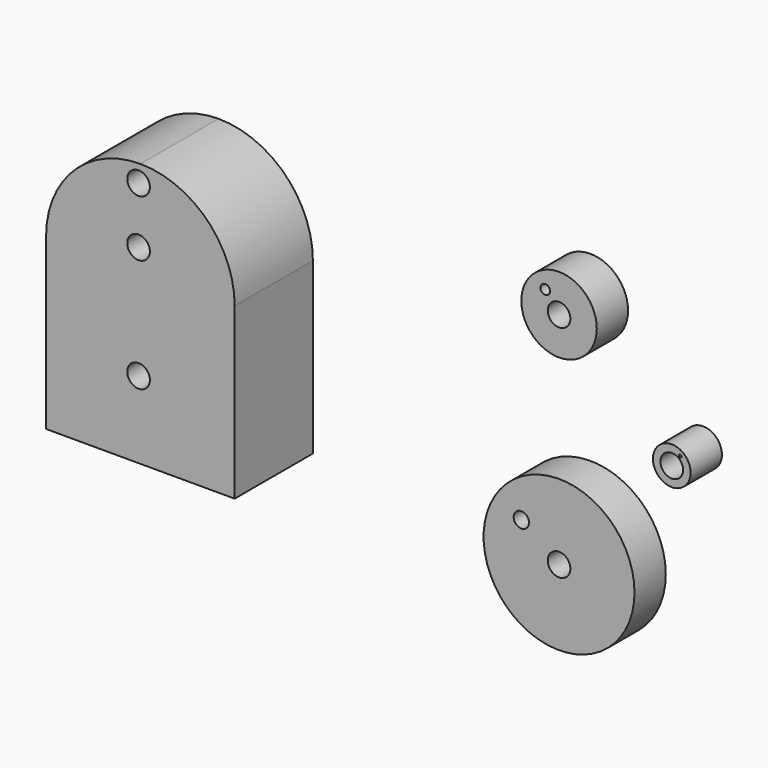
from build123d import *

# Parameters (mm, degrees)
F0_R     = 1.736305
F1_DEPTH = 15
F0_R_2   = 5.787677
F0_R_3   = 1.736303
F0_R_4   = 0.731572
F2_DEPTH = 6
F0_R_5   = 11.575355
F0_R_6   = 1.173323
F3_DEPTH = 6
F0_R_7   = 2.893839
F0_R_8   = 0.209683
F4_DEPTH = 6


with BuildPart() as f1:
    # F0 (on Front) → F1 (new body)
    with BuildSketch(Plane.XZ):
        with BuildLine():
            Line((-71.505299, -20.25687), (-42.566913, -20.25687))
            Line((-42.566913, -20.25687), (-42.566913, 5.787677))
            ThreePointArc((-42.566913, 5.787677), (-46.804841, 16.018942), (-57.036106, 20.25687))
            ThreePointArc((-57.036106, 20.25687), (-67.267371, 16.018942), (-71.505299, 5.787677))
            Line((-71.505299, 5.787677), (-71.505299, -20.25687))
        make_face()
        with Locations((-57.316788, -8.466583)):
            Circle(F0_R, mode=Mode.SUBTRACT)
        with Locations((-57.316788, 8.896417)):
            Circle(F0_R, mode=Mode.SUBTRACT)
        with Locations((-57.316788, 17.578417)):
            Circle(F0_R, mode=Mode.SUBTRACT)
    extrude(amount=F1_DEPTH)


with BuildPart() as f2:
    # F0 (on Front) → F2 (new body)
    with BuildSketch(Plane.XZ):
        with Locations((0, 14.781383)):
            Circle(F0_R_2)
        with Locations((0, 14.781383)):
            Circle(F0_R_3, mode=Mode.SUBTRACT)
        with Locations((-2.115286, 17.504476)):
            Circle(F0_R_4, mode=Mode.SUBTRACT)
    extrude(amount=F2_DEPTH)


with BuildPart() as f3:
    # F0 (on Front) → F3 (new body)
    with BuildSketch(Plane.XZ):
        with Locations((0, -18.971049)):
            Circle(F0_R_5)
        with Locations((0, -18.971049)):
            Circle(F0_R_3, mode=Mode.SUBTRACT)
        with Locations((-5.788575, -14.810966)):
            Circle(F0_R_6, mode=Mode.SUBTRACT)
    extrude(amount=F3_DEPTH)


with BuildPart() as f4:
    # F0 (on Front) → F4 (new body)
    with BuildSketch(Plane.XZ):
        with Locations((17.295926, 0)):
            Circle(F0_R_7)
        with Locations((17.295926, 0)):
            Circle(F0_R_3, mode=Mode.SUBTRACT)
        with Locations((18.596414, 1.736823)):
            Circle(F0_R_8, mode=Mode.SUBTRACT)
    extrude(amount=F4_DEPTH)


solid = Compound([f1.part, f2.part, f3.part, f4.part])
